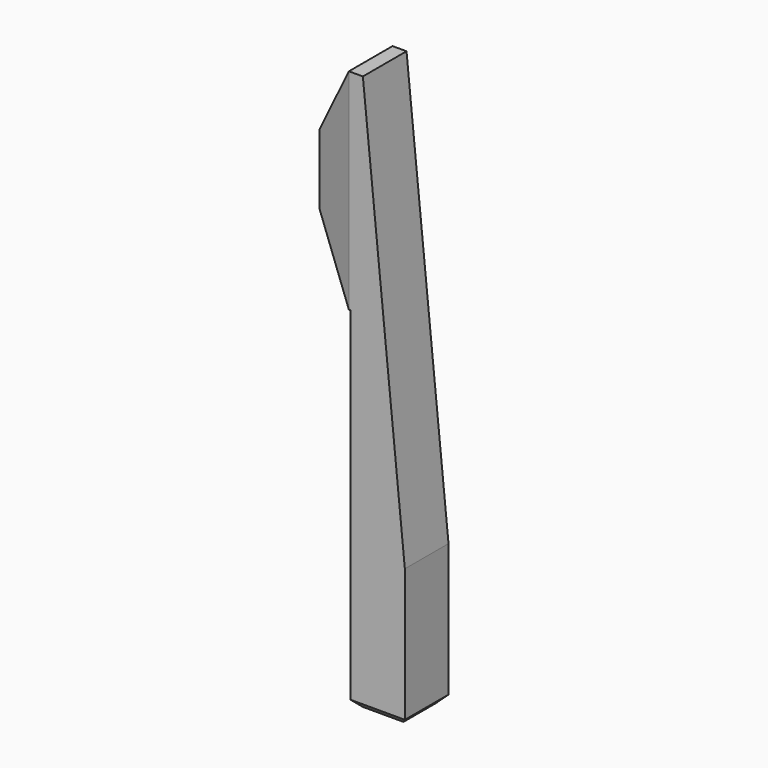
from build123d import *

# Parameters (mm, degrees)
SKETCH_W         = 3.9
SKETCH_H         = 3.9
PAD_DEPTH        = 40
CHAMFER_SIZE2    = 3
CHAMFER_SIZE     = 30
CHAMFER001_SIZE  = 0.5
SKETCH001_W      = 3.9
SKETCH001_H      = 15
PAD001_DEPTH     = 3
CHAMFER002_SIZE2 = 2.9
CHAMFER002_SIZE  = 1
CHAMFER003_SIZE2 = 2.9
CHAMFER003_SIZE  = 1
CHAMFER004_SIZE2 = 2.9
CHAMFER004_SIZE  = 5
CHAMFER005_SIZE2 = 2.9
CHAMFER005_SIZE  = 5


with BuildPart() as part:
    # Sketch → Pad (new body)
    with BuildSketch(Plane.XY):
        with Locations((1.95, 1.95)):
            Rectangle(SKETCH_W, SKETCH_H)
    extrude(amount=PAD_DEPTH)

    # Chamfer
    chamfer_edges = [part.edges().sort_by_distance(p)[0] for p in [
        (3.9, 1.95, 40),
    ]]
    chamfer_side = part.faces().sort_by_distance((3.9, 1.95, 20))[0]
    chamfer(chamfer_edges, length=CHAMFER_SIZE, length2=CHAMFER_SIZE2, reference=chamfer_side)

    # Chamfer001
    chamfer001_edges = [part.edges().sort_by_distance(p)[0] for p in [
        (1.95, 0, 0),
        (3.9, 1.95, 0),
        (1.95, 3.9, 0),
        (0, 1.95, 0),
    ]]
    chamfer(chamfer001_edges, length=CHAMFER001_SIZE)

    # Sketch001 (on Face5 of Chamfer001) → Pad001 (join)
    with BuildSketch(Plane(origin=(0, 0, 0), x_dir=(0, -1, 0), z_dir=(-1, 0, 0))):
        with Locations((-1.95, 32.5)):
            Rectangle(SKETCH001_W, SKETCH001_H)
    extrude(amount=PAD001_DEPTH)

    # Chamfer002
    chamfer002_edges = [part.edges().sort_by_distance(p)[0] for p in [
        (-3, 3.9, 32.5),
    ]]
    chamfer002_side = part.faces().sort_by_distance((-3, 1.95, 32.5))[0]
    chamfer(chamfer002_edges, length=CHAMFER002_SIZE, length2=CHAMFER002_SIZE2, reference=chamfer002_side)

    # Chamfer003
    chamfer003_edges = [part.edges().sort_by_distance(p)[0] for p in [
        (-3, 0, 32.5),
    ]]
    chamfer003_side = part.faces().sort_by_distance((-3, 1.45, 32.5))[0]
    chamfer(chamfer003_edges, length=CHAMFER003_SIZE, length2=CHAMFER003_SIZE2, reference=chamfer003_side)

    # Chamfer004
    chamfer004_edges = [part.edges().sort_by_distance(p)[0] for p in [
        (-3, 1.95, 40),
    ]]
    chamfer004_side = part.faces().sort_by_distance((-3, 1.95, 32.5))[0]
    chamfer(chamfer004_edges, length=CHAMFER004_SIZE, length2=CHAMFER004_SIZE2, reference=chamfer004_side)

    # Chamfer005
    chamfer005_edges = [part.edges().sort_by_distance(p)[0] for p in [
        (-3, 1.95, 25),
    ]]
    chamfer005_side = part.faces().sort_by_distance((-3, 1.95, 30))[0]
    chamfer(chamfer005_edges, length=CHAMFER005_SIZE, length2=CHAMFER005_SIZE2, reference=chamfer005_side)


solid = part.part
